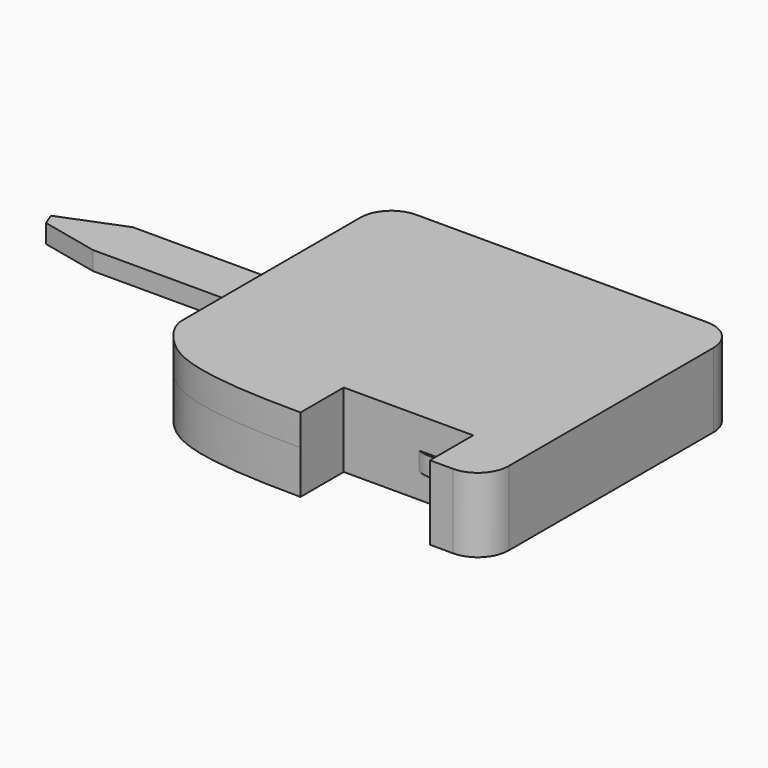
from build123d import *

# Parameters (mm, degrees)
F0_W          = 26.7619055467
F0_H          = 8
F0_W_2        = 2.3985728621
F0_H_2        = 18.6882130802
F1_DEPTH      = 3
F3_DEPTH      = 5
F3_DEPTH_BACK = 7
F5_DEPTH      = 3


with BuildPart() as f1:
    # F0 (on Top) → F1 (new body)
    with BuildSketch(Plane.XY):
        Rectangle(F0_W, F0_H)
        with BuildLine():
            Line((52.8560965785, 21.0423569454), (13.3809527733, 4))
            Line((13.3809527733, 4), (13.3809527733, -4))
            Line((13.3809527733, -4), (52.8560965785, -21.0423569454))
            ThreePointArc((52.8560965785, -21.0423569454), (57.5848119408, -20.6297501175), (59.837911278, -16.4518874164))
            add(Edge.make_bspline(
                [(59.837911278, 16.4518874164), (61.2770561129, 11.6345916109), (64.1553457826, 0), (61.2770561129, -11.6345916109), (59.837911278, -16.4518874164)],
                knots=[0, 0, 0, 0, 0.5, 1, 1, 1, 1], degree=3))
            ThreePointArc((59.837911278, 16.4518874164), (57.5848119408, 20.6297501175), (52.8560965785, 21.0423569454))
        make_face()
        with Locations((55.1606826484, 0)):
            Rectangle(F0_W_2, F0_H_2, mode=Mode.SUBTRACT)
    extrude(amount=F1_DEPTH)

    # F2 (on face) → F3 (join, two sides)
    with BuildSketch(Plane.XY.offset(3)) as f3_sk:
        with BuildLine():
            ThreePointArc((65.3452423009, -29.7888193663), (68.8807762069, -28.3243532722), (70.3452423009, -24.7888193663))
            Line((70.3452423009, -24.7888193663), (70.3452423009, 16.4658156037))
            ThreePointArc((70.3452423009, 16.4658156037), (68.8807762069, 20.0013495097), (65.3452423009, 21.4658156037))
            Line((65.3452423009, 21.4658156037), (18.3809527733, 21.4658156037))
            ThreePointArc((18.3809527733, 21.4658156037), (14.8454188674, 20.0013495097), (13.3809527733, 16.4658156037))
            Line((13.3809527733, 16.4658156037), (13.3809527733, -19.452085589))
            add(Edge.make_bspline(
                [(13.3809527733, -19.452085589), (13.3809527733, -21.0615276884), (16.7556266537, -26.514923688), (23.4789476527, -29.7888193663), (40.723754061, -29.7888193663)],
                knots=[0, 0, 0, 0, 0.3158208681, 1, 1, 1, 1], degree=3))
            Line((40.723754061, -29.7888193663), (40.723754061, -21.0617277771))
            Line((40.723754061, -21.0617277771), (61.6181507117, -21.0617277771))
            Line((61.6181507117, -21.0617277771), (61.6181507117, -29.7888193663))
            Line((61.6181507117, -29.7888193663), (65.3452423009, -29.7888193663))
        make_face()
    extrude(amount=F3_DEPTH)
    extrude(f3_sk.sketch, amount=-F3_DEPTH_BACK)

    # F4 (on face) → F5 (join, through all)
    with BuildSketch(Plane.XY.offset(3)):
        Polygon((-13.3809527733, -4), (-13.3809527733, 4), (-23.397071287, 0), (-22.625775183, -1.9313482969), align=None)
    extrude(amount=-F5_DEPTH)


solid = f1.part
